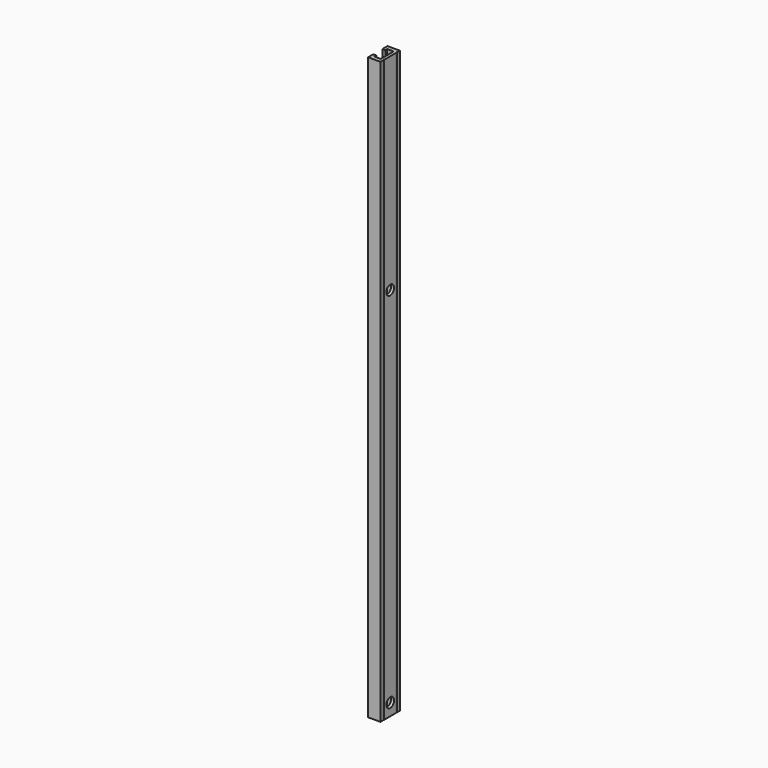
from build123d import *

# Parameters (mm, degrees)
F1_DEPTH = 457.2
F3_D     = 7.62
F3_DEPTH = 25.4


with BuildPart() as f1:
    # F0 (on Top) → F1 (new body)
    with BuildSketch(Plane.XY):
        with BuildLine():
            Line((-4.8895, -9.525), (4.8895, -9.525))
            Line((4.8895, -9.525), (4.8895, -6.861627))
            ThreePointArc((4.8895, -6.861627), (4.593677, -6.366351), (4.8895, -5.871076))
            Line((4.8895, -5.871076), (4.8895, 5.871076))
            ThreePointArc((4.8895, 5.871076), (4.593677, 6.366351), (4.8895, 6.861627))
            Line((4.8895, 6.861627), (4.8895, 9.525))
            Line((4.8895, 9.525), (-4.8895, 9.525))
            Line((-4.8895, 9.525), (-4.8895, 4.445))
            Line((-4.8895, 4.445), (-2.54, 4.445))
            Line((-2.54, 4.445), (-2.54, 6.35))
            Line((-2.54, 6.35), (2.54, 6.35))
            Line((2.54, 6.35), (2.54, -6.35))
            Line((2.54, -6.35), (-2.54, -6.35))
            Line((-2.54, -6.35), (-2.54, -4.445))
            Line((-2.54, -4.445), (-4.8895, -4.445))
            Line((-4.8895, -4.445), (-4.8895, -9.525))
        make_face()
    extrude(amount=F1_DEPTH)

    # F3
    with Locations(Plane.YZ.offset(4.8895)):
        with Locations((0, 9.525), (0, 295.275)):
            Hole(F3_D / 2, depth=F3_DEPTH)


solid = f1.part
